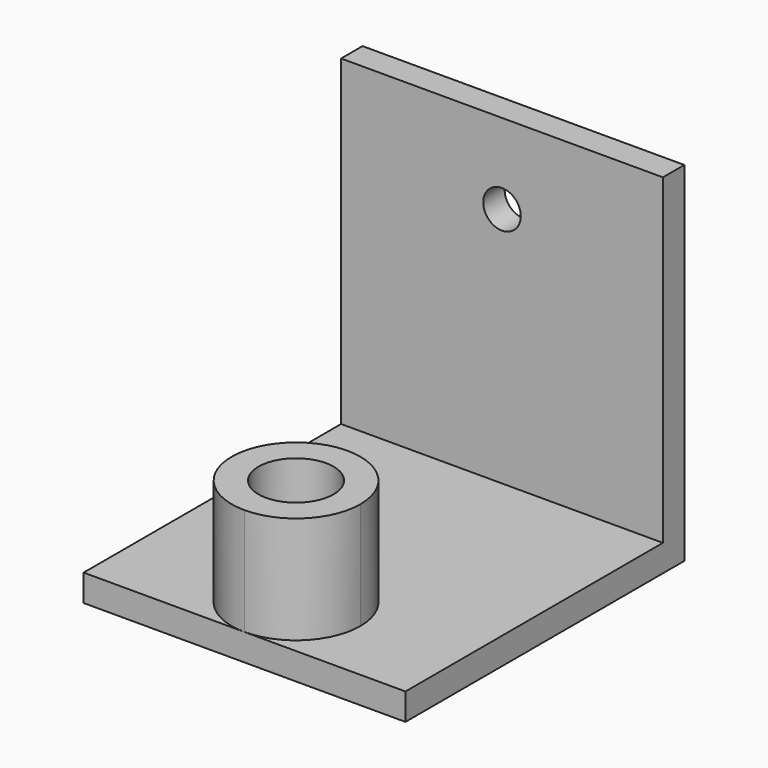
from build123d import *

# Parameters (mm, degrees)
F0_R     = 3.5
F0_W     = 30
F0_H     = 2.5
F1_DEPTH = 2.5
F2_DEPTH = 12.5
F3_DEPTH = 32.5
F4_R     = 1.75
F5_DEPTH = 2.501


with BuildPart() as f1:
    # F0 (on Top) → F1 (new body)
    with BuildSketch(Plane.XY):
        Polygon((-15, 13.75), (-15, -16.25), (6.69e-08, -16.25), (15, -16.25), (15, 13.75), align=None)
        with BuildLine():
            ThreePointArc((6, -10.25), (4.2426407108, -14.4926406635), (6.69e-08, -16.25))
            ThreePointArc((6.69e-08, -16.25), (-4.2426407108, -6.0073593365), (6, -10.25))
        make_face(mode=Mode.SUBTRACT)
        with BuildLine():
            ThreePointArc((6, -10.25), (-4.2426407108, -6.0073593365), (6.69e-08, -16.25))
            ThreePointArc((6.69e-08, -16.25), (4.2426407108, -14.4926406635), (6, -10.25))
        make_face()
        with Locations((0, -10.25)):
            Circle(F0_R, mode=Mode.SUBTRACT)
        with Locations((0, 15)):
            Rectangle(F0_W, F0_H)
        with Locations((0, -10.25)):
            Circle(F0_R)
    extrude(amount=F1_DEPTH)

    # F0 (on Top) → F2 (join)
    with BuildSketch(Plane.XY):
        with BuildLine():
            ThreePointArc((6, -10.25), (-4.2426407108, -6.0073593365), (6.69e-08, -16.25))
            ThreePointArc((6.69e-08, -16.25), (4.2426407108, -14.4926406635), (6, -10.25))
        make_face()
        with Locations((0, -10.25)):
            Circle(F0_R, mode=Mode.SUBTRACT)
    extrude(amount=F2_DEPTH)

    # F0 (on Top) → F3 (join)
    with BuildSketch(Plane.XY):
        with Locations((0, 15)):
            Rectangle(F0_W, F0_H)
    extrude(amount=F3_DEPTH)

    # F4 (on face) → F5 (cut, through all)
    with BuildSketch(Plane.XZ.offset(-13.75)):
        with Locations((0, 25)):
            Circle(F4_R)
    extrude(amount=-F5_DEPTH, mode=Mode.SUBTRACT)


solid = f1.part
